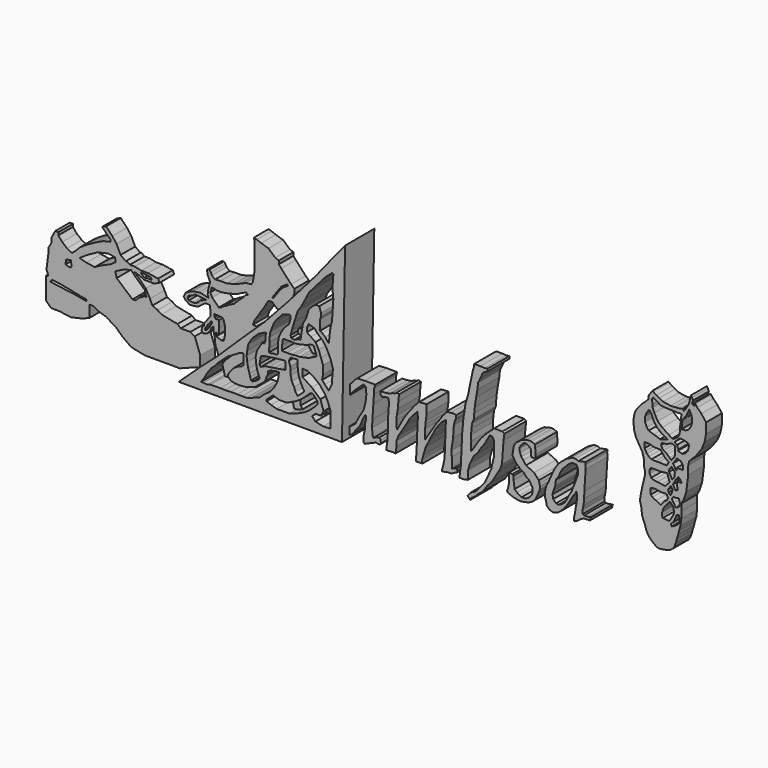
from build123d import *

# Parameters (mm, degrees)
F1_DEPTH  = 6
F3_DEPTH  = 12
F4_ANGLE  = 180
F9_DEPTH  = 9
F11_DEPTH = 5
F12_SCALE = 1.3


with BuildPart() as f1:
    # F0 (on Front) → F1 (new body)
    with BuildSketch(Plane.XZ):
        Polygon((-50.8903078735, 22.9462273419), (-52.1567687392, 21.8524653465), (-53.7686310709, 22.6583946496), (-55.3804934025, 23.982424289), (-56.6469542682, 25.4791527987), (-56.6469542682, 26.4002159238), (-57.6831512153, 26.4002159238), (-58.8344819844, 24.2702569813), (-58.8344819844, 22.7159615606), (-59.9282421172, 20.8162665367), (-59.9282421172, 19.1468391567), (-60.5614744127, 14.3112558872), (-60.1009428501, 13.2174929604), (-60.1009428501, 12.5842615962), (-60.6766082346, 12.5842615962), (-60.6766082346, 10.9148332849), (-60.6766082346, 7.6911114156), (-60.6766082346, 5.3308852948), (-59.007178992, 3.661457682), (-56.4742535353, 3.661457682), (-52.5021664798, 3.1433594413), (-48.5876500607, 4.0068565868), (-46.3425554335, 4.9854866229), (-46.3425554335, 7.1730129421), (-46.3425554335, 8.7848743424), (-45.2487915754, 8.7848743424), (-43.6944961548, 7.9213771969), (-40.9313067794, 7.0003136061), (-37.7075858414, 5.0430530682), (-35.6351919472, 3.085792996), (-32.7568687499, 0.9558334714), (-28.2091163099, 0), (-23.028133437, 0), (-16.6958197951, 0), (-12.7237346023, 1.5314982738), (-10.0181093439, 2.51012831), (-10.0181093439, 3.3160587773), (-10.0181093439, 5.9065502137), (-11.8026696146, 10.8572673053), (-13.2418321446, 11.6631984711), (-16.4079889655, 11.6631984711), (-17.5017509609, 12.5842615962), (-22.7403007448, 13.6204585433), (-24.0067634732, 14.4839556888), (-25.7337577641, 15.2323199436), (-26.5396889299, 16.9593133032), (-27.9212836176, 19.49223876), (-30.857173726, 22.3705619574), (-31.7206718028, 23.1189262122), (-29.4180121273, 22.255429998), (-28.6120809615, 21.7948984355), (-26.424555108, 21.7948984355), (-25.1005254686, 21.7948984355), (-23.3735311776, 22.6008277386), (-23.8588541242, 23.6408072438), (-27.1153524518, 24.1551231593), (-29.4180121273, 24.1551231593), (-31.4904041588, 24.6156547219), (-33.1598334014, 24.6156547219), (-34.2535972595, 25.4215858877), (-34.4359083633, 25.1741636453), (-36.1874993711, 26.4648094941), (-37.5348851085, 29.2209740728), (-38.9164797962, 31.0631003231), (-40.9313067794, 33.1930592656), (-42.2553345561, 32.6173938811), (-40.7010391355, 31.0055334121), (-39.4345782697, 29.8542045057), (-39.4345782697, 29.2209740728), (-41.8523699045, 28.6453086883), (-44.3277284503, 27.4364128709), (-46.975787729, 25.9972512722), (-49.5662763715, 24.3278220296), align=None)
        Polygon((-55.1421754062, 10.6493029743), (-59.3536198139, 11.2301921472), (-58.7243239239, 11.9563023176), (-56.691210717, 11.7626739666), (-53.3026903868, 11.1333774403), (-49.2848716676, 10.2620432153), (-47.4937967956, 10.0200055167), (-47.3485738039, 9.4391163439), (-51.4632090926, 10.1652285084), align=None, mode=Mode.SUBTRACT)
        Polygon((-54.3192476034, 17.8136043251), (-54.0772117674, 19.3626433611), (-52.5783850206, 19.66212536), (-52.2343181582, 17.9401633794), (-52.6609825086, 17.4478586796), align=None, mode=Mode.SUBTRACT)
        Polygon((-47.4003616243, 20.6076433745), (-49.655135721, 21.2192330509), (-47.5370049114, 22.6728506386), (-43.6601264163, 24.8393432986), (-40.1573494985, 25.5392364886), (-38.0100127125, 25.2000962914), (-37.7964414656, 23.8661132753), (-39.5351975016, 22.6728506386), (-42.8622923791, 21.2192330509), (-44.7044186294, 20.1818589121), align=None, mode=Mode.SUBTRACT)
        Polygon((-37.4773181975, 19.3771068007), (-37.9378497601, 21.2192330509), (-36.844085902, 21.7373315245), (-35.5200581253, 22.4281288683), (-32.7568687499, 23.2916269451), (-31.3752703369, 21.7661140487), (-28.2666832209, 18.9741402864), (-27.691014373, 16.9593133032), (-28.2091163099, 17.1320140362), (-30.1663763821, 16.0382501781), (-31.3177071512, 14.8869203404), (-32.2963371873, 14.8869203404), align=None, mode=Mode.SUBTRACT)
        Polygon((-28.2091163099, 23.5418564651), (-26.174498722, 23.2205186039), (-26.033618412, 22.5154505948), (-27.0302295685, 22.6728506386), (-28.4461871072, 22.4281288683), (-29.3165175329, 23.1824157275), (-29.5631922781, 23.5418564651), align=None, mode=Mode.SUBTRACT)
    extrude(amount=F1_DEPTH)


with BuildPart() as f1b:
    # F0 (on Front) → F1, piece 2 (new body)
    with BuildSketch(Plane.XZ):
        Polygon((-6.4766486175, 24.1211820394), (-6.0227513313, 22.7532275021), (-4.7557256185, 20.7957290113), (-3.9602471516, 17.7878271788), (-2.5808943901, 15.855608508), (0, 14.1740757972), (2.6175838429, 14.1740757972), (4.0891966479, 14.1740757972), (6.3719204627, 16.4541210979), (6.3719204627, 19.1784072667), (7.1793175302, 22.3014913499), (7.1793175302, 24.6746949852), (6.2555400655, 25.571167469), (6.2555400655, 26.5979077667), (7.7997222543, 29.0700420737), (7.8476918861, 33.3736091852), (7.1793175302, 34.4091877341), (6.4480341971, 35.2918356657), (5.3185992874, 35.4594774544), (5.8891260996, 37.002261728), (6.6770236008, 38.1651744246), (7.7774901874, 39.829261601), (9.1172754765, 41.8718084693), (10.260488838, 43.8701063395), (11.51151862, 44.2106835544), (13.2207619026, 42.6477976143), (14.0992446215, 42.3229317509), (16.4364669472, 44.8764674366), (18.4858739376, 47.6983971894), (18.9159214497, 49.0640550852), (18.9159214497, 50.247143954), (17.8419221193, 51.212541759), (14.6040525287, 54.7406189144), (13.8020487502, 55.6814447045), (13.8020487502, 56.7613206804), (12.6419296226, 57.1903366349), (10.4199834168, 59.1695196927), (8.0042615396, 59.9302337678), (6.5820836462, 60.489397496), (5.6565244136, 60.7808573458), (5.8891260996, 59.1128058732), (5.8891260996, 55.8542795479), (5.8891260996, 53.2310456038), (5.8891260996, 51.5523031354), (5.5020246655, 49.0490309894), (5.1759332418, 47.5368723273), (4.7469246201, 46.9490364194), (2.9652472585, 46.7585995793), (1.051811385, 45.9068603814), (-1.0845619254, 45.1102182269), (-3.255240852, 44.6216836572), (-5.4235248826, 44.5898845792), (-7.1534560993, 44.4812774658), (-8.1396894529, 45.2769771218), (-8.5840793326, 46.1595393717), (-9.0459091589, 46.6521605849), (-9.7805997357, 46.4868098497), (-9.6165947616, 44.9796766043), (-9.138809517, 44.1046357155), (-8.7612094358, 43.2070456445), (-8.9522367343, 42.4973070621), (-9.4994436949, 40.4090061784), (-9.5668081194, 39.3059961498), (-9.2893932015, 38.3858606219), (-11.5338107571, 39.0036702156), (-12.4138211831, 39.0161648393), (-14.3808238208, 38.7138389051), (-15.9419588745, 38.0115732551), (-16.8685875833, 37.4521017075), (-17.1597991139, 36.7198176682), (-17.4477063119, 36.1286401749), (-16.6242308915, 35.1208485663), (-15.493591316, 34.4629250467), (-14.2128402367, 34.5406197011), (-12.687494047, 34.7786396742), (-11.5614067763, 35.6988236308), (-10.5312857777, 36.4219471812), (-9.6964091063, 36.6098470986), (-8.7529150769, 36.4712700248), (-8.7276156992, 35.4242064059), (-8.6770188063, 33.3300866187), (-9.7998240963, 31.8654999137), (-10.7171088457, 30.6413900107), (-10.7152890414, 30.0101470202), (-11.3888885826, 29.2619839311), (-11.579005979, 28.2366238534), (-11.0052516684, 27.5586396456), (-9.614398703, 28.0822180212), (-8.7596876547, 29.1167851537), (-8.4534306079, 29.7822728753), (-8.1396512687, 30.4143615067), (-7.6688150875, 30.6606963277), (-7.6260762289, 30.0035681576), (-7.6642618515, 29.0825851262), (-7.2899674997, 28.043884784), (-7.1551408619, 26.354726404), (-6.9661717862, 25.2041332424), align=None)
        Polygon((-10.3409533333, 28.7805036861), (-10.43465361, 29.0523078293), (-9.9682174623, 29.9919135869), (-9.5429206267, 30.6510068476), (-8.9508062229, 31.2641821802), (-8.4582464769, 31.9488458335), (-8.1514483318, 31.976159662), (-8.0687012523, 31.6087678075), (-8.473158814, 30.9960991144), (-8.8639277965, 30.2300136536), (-9.4775948673, 29.4346306473), (-10.0565608591, 28.855714947), align=None, mode=Mode.SUBTRACT)
        Polygon((-12.4138211831, 37.8783025047), (-10.0550018251, 37.6218743622), (-11.3515928388, 37.0796732605), (-11.9998874143, 36.8085727096), (-12.5587275252, 36.1402928829), (-13.3916307241, 35.5772562325), (-14.4023634493, 35.4332439601), (-15.7805457711, 35.623844713), (-16.1927267909, 36.157052964), (-15.9476641566, 36.9216427207), (-15.0392651558, 37.3347438872), (-14.5845236257, 37.3536273837), (-13.6493925312, 38.0126219322), align=None, mode=Mode.SUBTRACT)
        Polygon((-7.3508685455, 33.5013158619), (-7.4279122055, 34.4665497541), (-4.7557256185, 34.176055342), (-4.355229903, 33.7544158101), (-3.9602471516, 32.2608878375), (-3.9177263034, 30.5010218772), (-3.9191739634, 29.3256994337), (-4.0575447492, 28.3821690828), (-4.3078395538, 27.6239998639), (-5.0575751811, 27.525447309), (-5.7489536703, 27.7909468859), (-6.4737279899, 28.0489325523), (-6.8043726496, 28.1148850918), (-7.0267361589, 29.2579643428), (-5.819386337, 29.0384050459), (-5.809805356, 30.8653376997), (-5.814358592, 32.4434489012), (-5.8646192774, 33.1339761615), (-6.8857320584, 33.1498011947), align=None, mode=Mode.SUBTRACT)
        Polygon((-8.7276156992, 40.1786204655), (-8.196093142, 41.8665222824), (-7.3527838103, 41.7053997517), (-6.3867219724, 41.46662727), (-5.0166142173, 41.4591580629), (-2.5820801966, 41.8667122722), (-0.8013135521, 42.3727668822), (0.185493569, 42.6650382578), (1.6906661913, 43.4599891305), (3.0739977956, 44.0169647336), (3.792159725, 43.4767603874), (3.0240740161, 43.3038920164), (2.265330404, 42.4663834274), (1.3320897706, 41.6246950626), (0.3729765886, 40.7420881093), (-0.8523862343, 39.4837372005), (-2.1797558293, 38.8340763748), (-3.5029090941, 38.0099117756), (-4.4262320735, 37.5915542245), (-5.1040505059, 37.017904222), (-5.9238825925, 36.7632098496), (-8.0576231703, 38.9148779213), align=None, mode=Mode.SUBTRACT)
        Polygon((11.8717471082, 45.1549677482), (11.6953086108, 45.4266890883), (13.0655001849, 47.3296903074), (14.7101513521, 49.5942917669), (16.5997017175, 50.7835671306), (16.8190041821, 50.4351339041), (15.3437723488, 49.5066289501), (14.4301839173, 48.6778058112), (13.4443407244, 47.3203496052), (12.4452809844, 45.9446948825), align=None, mode=Mode.SUBTRACT)
    extrude(amount=F1_DEPTH)


with BuildPart() as f3:
    # F2 (on Front) → F3 (new body)
    with BuildSketch(Plane.XZ):
        Polygon((21.362606436, 17.9794051219), (20.3456245363, -39.2188690603), (25.1185949892, -33.3852358162), (30.0683416426, -27.1980501711), (38.7304015458, -17.2985550016), (46.6853529215, -8.6364969611), (55.7009652257, 0), (62.241602689, 6.3994769007), (67.5930380821, 11.0819805413), (73.9106982946, 16.9536899775), (75.0255808234, 17.9794051219), align=None)
        Polygon((35.0110121071, -7.1538812481), (35.0134298205, -7.1538225748), (35.7009284198, -7.1538225748), (37.0134301484, -6.5288227051), (38.075927645, -6.7163226195), (38.2634289563, -7.4663222767), (37.763427943, -9.2788217589), (37.0134301484, -11.7163229734), (35.9509289265, -15.1538224891), (34.7009301186, -17.0288216323), (33.2634299994, -19.716322422), (32.1384295821, -21.9038221985), (30.325928703, -23.9663235843), (27.8259292245, -26.8413219601), (26.5134293586, -28.2788239419), (25.1384284347, -29.4038224965), (24.5134290308, -30.0288237631), (24.2009293288, -29.6538230032), (24.5134290308, -25.2788234502), (24.2009293288, -22.5288234651), (24.5134290308, -17.7163220942), (24.7009284794, -15.8413220197), (25.1384284347, -13.9663228765), (25.3884289414, -12.091322802), (25.57592839, -10.2163217962), (25.57592839, -9.0913223103), (26.2009296566, -9.7163217142), (26.8259290606, -10.6538217515), (27.8884284198, -11.4663224667), (28.5134296864, -11.903822422), (28.5759288818, -12.216322124), (28.5759288818, -13.4038226679), (28.5759288818, -15.1538224891), (28.2634291798, -16.0913225263), (28.2634291798, -17.1538218856), (28.8259293884, -18.9038217068), (30.0759281963, -18.9663227648), (31.2009286135, -18.0288217962), (32.2634279728, -16.9038232416), (32.8884273767, -14.9038229138), (33.1384278834, -14.0288220719), (34.2009291053, -12.1538229287), (34.5134288073, -10.2788219228), (34.8259285092, -8.3413217217), align=None, mode=Mode.SUBTRACT)
        Polygon((24.6272403747, 2.1912516095), (25.7421210408, 4.4957725331), (26.9957559826, 3.1167732086), (27.8947470718, 2.1278823732), (27.6002585888, 0.4817657173), (27.6002585888, -2.2682757117), (28.2691866159, -4.1264118627), (29.0124416351, -6.2818494625), (30.0529971719, -8.1399856135), (31.613830477, -9.1805420816), (32.8773632646, -10.0724473596), (32.8773632646, -11.4103052765), (32.2827622294, -12.6738380641), (30.4989498109, -12.0792351663), (29.3097440153, -10.741376318), (27.6002585888, -9.2548681423), (26.3367258012, -7.3967315257), (25.0731930137, -4.7210152261), (24.3299379945, -2.1939501166), (24.5529152453, 0.1101385133), align=None, mode=Mode.SUBTRACT)
        Polygon((29.8799018292, -4.7885430561), (29.6520832926, -4.1202711873), (30.0988089293, -3.8574913051), (30.8345947415, -3.5421552602), (31.570378691, -3.1742628198), (32.4112735689, -2.7538146824), (33.9879542589, -2.4384784047), (35.3281348944, -2.1756982896), (36.6945900023, -2.1494203247), (37.8245450556, -1.9917523023), (39.4012257457, -1.9917523023), (40.2158424258, -1.9654741045), (41.1618538201, -2.0443082321), (41.0304628313, -3.5684332252), (40.951628238, -4.5144418254), (40.7676845789, -5.5655622855), (40.3209552169, -5.7232300751), (39.4275039434, -5.5918400176), (38.2187142968, -5.7232300751), (36.7734245956, -5.5655622855), (35.6171913445, -5.7232300751), (32.9631119967, -6.3276244327), (31.9382697344, -6.8269069307), (31.1499293894, -6.9845751859), (30.7032037526, -6.9057410583), (30.4486274554, -6.4568152817), align=None, mode=Mode.SUBTRACT)
        Polygon((42.3763617873, -2.5280520786), (42.3763617873, -1.0037363973), (42.3628501594, -0.9925549384), (42.3763617873, -0.6699159276), (42.8966395557, -0.3726144787), (43.9371950924, -0.2982890583), (44.9405871332, -0.1124754417), (45.3493781388, -0.186800884), (45.275054872, -1.4503330458), (45.126400888, -3.2713068649), (45.163564384, -4.5720022172), (44.9034273624, -6.2814871781), (44.3831495941, -7.5821825303), (43.8257083297, -9.031528607), (42.8966395557, -10.4437125847), (41.7445935309, -11.6329193115), (40.8526882529, -12.6734757796), (39.8864597082, -12.9336146638), (38.6600866914, -13.3795673028), (38.2884629071, -13.0079407245), (38.2884629071, -12.0788719505), (38.7344136834, -10.5923628435), (39.031714201, -10.2207362652), (39.7378057241, -9.514644742), (40.4810607433, -8.6970645934), (41.4472930133, -7.173392456), (42.0790575445, -5.8726971038), (42.3763617873, -4.0888865478), align=None, mode=Mode.SUBTRACT)
        Polygon((39.9325937033, 1.8793363124), (39.9325937033, 3.1167732086), (41.2584170699, 3.3819382079), (42.2306880355, 3.5587148741), (43.3797389269, 3.6912974901), (45.412670821, 4.0448508225), (46.65010795, 4.2216274887), (48.0643212795, 4.8845401034), (48.4620667994, 4.2216274887), (48.1969043612, 2.7632198762), (48.0201281607, 1.7909479793), (47.3130196333, 1.4373945305), (45.6778369844, 1.1722295312), (43.9100675285, 0.9070644155), (41.8771356344, 0.6860935246), (40.1093699038, 0.5093168584), (39.9325937033, 0.7744818577), align=None, mode=Mode.SUBTRACT)
        Polygon((25.1185949892, 12.7035845071), (25.1185949892, 15.3313847259), (27.5734327734, 15.4364965856), (30.0987314903, 14.8581444292), (31.1974138021, 13.6495931074), (30.0411805511, 12.5984726474), (28.3593870699, 12.5984726474), (27.413379401, 11.0217919573), (28.464499861, 7.8684296459), (31.3025265932, 5.3457408212), (34.3507751822, 3.3486112952), (34.3507751822, 0.9310340392), (32.6689854264, 1.0361460736), (30.4616298527, 2.2974908352), (28.6747235805, 3.7690594327), (26.887819171, 5.976412911), (25.941811502, 7.9735415056), (25.1185949892, 10.1808952168), align=None, mode=Mode.SUBTRACT)
        Polygon((34.2467539012, 6.4650792629), (33.7164215744, 7.3931571096), (34.8833685051, 8.4540172722), (35.8655402103, 9.3469000651), (36.6772513172, 8.4540172722), (37.1193736792, 7.1279923432), (37.8264822066, 5.8021666482), (38.2242277265, 4.1227880865), (38.3568108082, 2.9295454733), (38.3568108082, 1.6037201276), (38.842946291, 0.1011178902), (38.2684208453, -1.0037363973), (37.3845398426, -1.0479305638), (36.0587127507, -1.1363190133), (35.9206548851, 0.9345495156), (35.7493534684, 2.487603575), (35.4841910303, 3.7250404712), (34.9096655846, 5.1392540336), align=None, mode=Mode.SUBTRACT)
        Polygon((29.4225343053, 8.7688182974), (29.341198504, 9.6470601857), (30.6192971766, 10.972885415), (32.0334449349, 12.2584734577), (33.8048115373, 13.447759673), (35.9703265131, 14.4200315699), (38.6661700904, 15.3313847259), (41.1410443485, 15.3313847259), (42.8646169603, 15.3313847259), (44.676579535, 14.7735849023), (46.1791791022, 14.243254438), (46.1791791022, 13.7571189553), (44.9033476039, 12.597272886), (43.9992661279, 11.7753811648), (41.9807322323, 12.4754868448), (39.5058579743, 12.4754868448), (36.6774313152, 11.1496625468), (34.6003063023, 9.8238363862), (33.0935043059, 8.4540172722), (31.6131000369, 7.1081960767), (30.9321898967, 7.1081960767), align=None, mode=Mode.SUBTRACT)
        Polygon((48.7260967493, 7.5903632678), (48.3916290104, 8.4540172722), (49.2177218066, 9.2050102393), (50.1382797956, 9.6470601857), (50.8072078228, 10.0802658126), (51.2531585991, 9.8201269284), (51.513299346, 9.0025458485), (51.7734400928, 7.9991528764), (52.1450638771, 6.7356205545), (52.5166913867, 4.9146469682), (52.7025051415, 3.2423243392), (52.5166913867, 1.6443271888), (52.1450638771, -0.3252973256), (51.2159988284, -1.9604570698), (50.2126030624, -3.1125016976), (48.7260967493, -4.4875224121), (46.9051226974, -5.4165907204), (46.1990311742, -5.5280788802), (46.4963316917, -4.5618480071), (46.4963316917, -3.1496644951), (46.9051226974, -2.2577587515), (47.6112142205, -2.2205961868), (48.6146062613, -0.5482736742), (49.3206977844, 0.6037708954), (49.72948879, 2.6105579454), (49.655161798, 3.9112530649), (49.2835342884, 5.9552029707), align=None, mode=Mode.SUBTRACT)
        Polygon((43.0962704122, 4.5321499929), (42.0599281788, 4.4957725331), (42.3099286854, 6.2457723543), (42.6849275827, 7.6832724735), (43.653678149, 9.402022697), (44.9974276125, 11.0895223916), (46.7161759734, 12.3082725331), (48.520476413, 13.9485446031), (49.7161783278, 14.243254438), (51.2161776423, 14.9332731962), (52.7403019369, 15.3313847259), (54.2118735611, 15.3586929664), (55.7477752619, 15.3313847259), (57.917073369, 15.3324147686), (59.7565323114, 15.4112484306), (61.3332130015, 15.3586929664), (64.5654127002, 15.4112484306), (65.6165331602, 15.7265849411), (66.851593554, 15.6214730814), (67.3771575093, 15.6214730814), (67.7976086736, 15.6740285456), (66.693931818, 14.243254438), (65.7479166985, 12.4943889678), (64.3551871181, 10.6023717672), (63.079930014, 9.4430478741), (61.9376078248, 8.1322388723), (60.4243031075, 6.7565081976), (59.0823385523, 5.5365412063), (57.7594041824, 4.742374178), (56.3666671515, 3.9277556352), (55.0790466368, 3.1656932551), (54.2644262314, 2.8503569774), (53.7125878036, 2.8503569774), (53.6863096058, 4.7160959803), (53.6863096058, 6.1876648106), (54.3120377348, 6.7565081976), (55.6571632624, 7.2913416661), (57.0236183703, 8.1585161388), (57.9170696437, 9.2621929944), (58.8105246425, 10.5235371739), (58.8105246425, 11.1804874614), (58.5085052128, 11.5127090482), (57.7594041824, 12.1527742594), (56.6031709313, 12.4155543745), (55.0002120435, 12.4943880364), (53.0293621123, 12.3104415834), (51.4001250267, 11.8111604825), (49.9285534024, 11.2855993211), (48.6934892833, 10.3133134544), (47.3007522523, 9.2096365988), (46.4861355722, 8.2636279985), (46.1791791022, 7.1862293407), (45.6715151668, 6.2402212061), (45.6715151668, 5.3467685357), (44.9357330799, 4.9263201654), (44.1211126745, 4.742374178), align=None, mode=Mode.SUBTRACT)
    extrude(amount=F3_DEPTH)


with BuildPart() as f3_1:
    # F4: moved
    add(f3.part.rotate(Axis((21.362606436, -6, 17.9794051219), (0, 1, 0)), F4_ANGLE))


with BuildPart() as f3_2:
    # F5: moved
    add(f3_1.part.moved(Location((20, 0, -18))))


with BuildPart() as f1b_1:
    # F6: moved
    add(f1b.part.moved(Location((2, 0, 0))))


with BuildPart() as f1b_2:
    # F7: moved
    add(f1b_1.part.moved(Location((0, 0, -15))))


with BuildPart() as f9:
    # F8 (on Front) → F9 (new body)
    with BuildSketch(Plane.XZ):
        Polygon((22.9895692319, 25.5935322493), (22.9895692319, 24.4898553938), (24.0932460874, 24.5424117893), (25.880150497, 24.1219624877), (27.719611302, 22.6503945887), (29.5590721071, 20.0225934386), (30.6627489626, 17.9203525186), (31.1883091927, 15.8706661314), (31.8189822137, 13.2428649813), (32.1343168616, 10.1946154609), (31.7138694227, 6.6208057106), (31.0306418687, 4.2557842098), (29.8744086176, 2.6265475899), (28.245171532, 1.9433193374), (26.8787145615, 2.6265475899), (26.0903742164, 3.2046639826), (25.4071466625, 4.1506723501), (25.4071466625, 5.77990897), (25.4071466625, 8.7756030262), (25.4071466625, 10.299728252), (25.4071466625, 12.0340771973), (25.9327068925, 13.7158697471), (26.8787145615, 15.8706661314), (28.245171532, 17.1845667064), (29.4539611787, 17.6575724036), (28.9809554815, 18.130576238), (28.1926151365, 18.130576238), (26.3531543314, 17.1845667064), (25.2494774759, 15.8706661314), (24.1983570158, 14.0312062576), (23.0421256274, 11.9289644063), (22.6216781884, 10.2471718565), (22.6216781884, 7.9872626811), (22.6216781884, 5.77990897), (22.9370128363, 3.7827801425), (23.5676858574, 1.6279831761), (24.5662499219, 0.5768627161), (25.9951874614, 0), (27.2139385343, 0), (28.4028407186, 0.5768627161), (30.2423015237, 1.2600909686), (32.0817604661, 2.57399166), (33.2905501127, 3.7302242126), (34.3416705728, 5.6222411804), (34.8672308028, 8.1449309364), (34.8672308028, 10.4573955759), (34.9362120032, 11.2485932186), (34.9362120032, 12.0847541839), (34.7132384777, 13.1810549647), (34.3416705728, 14.7669902071), (33.8161103427, 16.7641192675), (33.0277718604, 19.1291403025), (31.3985347748, 21.6518305242), (29.7955680225, 23.6226745571), (26.3005997986, 27.1176565439), (25.8275941014, 26.6446527094), (24.0932460874, 26.0139815509), align=None)
    extrude(amount=F9_DEPTH)


with BuildPart() as f9b:
    # F8 (on Front) → F9, piece 2 (new body)
    with BuildSketch(Plane.XZ):
        Polygon((49.5650216815, 17.0191367408), (49.894310534, 18.1597545743), (47.6404093206, 18.1597545743), (46.4471653104, 18.1597545743), (43.9280979335, 18.0271714926), (43.1216335266, 17.3027330303), (41.9862461211, 15.9819768105), (40.6541824341, 14.4324339926), (39.4202917814, 12.5029003248), (38.403827697, 10.9561039135), (37.8734953701, 9.2325313017), (37.2989699244, 7.7741234563), (36.6360582411, 5.8737737127), (36.3515168428, 3.7598838098), (36.4201952694, 2.9815315455), (36.7645025253, 1.9028326496), (37.0338074863, 1.365967677), (37.6525260508, 0.3495017299), (38.7131869793, -0.180828356), (39.3237024546, 0), (40.2992255986, 0.1806306245), (40.9867353737, 0.5150951329), (41.5255948901, 0.9424664313), (42.30600968, 1.3698377879), (42.8448691964, 1.9086973043), (43.3535724878, 2.7801811229), (44.9445657432, 4.7689191997), (45.8726398647, 7.0670163259), (46.4471653104, 8.0834822729), (46.7123314738, 8.569618687), (46.9333007932, 7.4647641741), (46.5797483921, 5.8737737127), (46.5355552733, 4.2385892011), (46.1378060281, 2.6475987397), (46.0052229464, 1.365967677), (46.0052229464, 0.2611133677), (46.4471653104, -0.0924400156), (48.0381548405, 0.6146667292), (49.3639819324, 1.1449968442), (50.0710867345, 1.5427443432), (50.6456121802, 1.3217735104), (51.3969138265, 1.3217735104), (51.7946593463, 1.8079094589), (51.6178831458, 2.7801811229), (51.3085238636, 3.3547054045), (50.0268936157, 2.912763739), (49.2645464838, 2.5507914834), (49.0926773859, 2.912763739), (48.8185957074, 5.3008329123), (48.9672459662, 7.7535728924), (49.2645464838, 12.361750938), (49.4476646257, 15.2000944714), align=None)
        Polygon((40.525380522, 10.7402931899), (41.9395938516, 13.0383903161), (43.1770309806, 14.3642155454), (44.6796305478, 15.7784298062), (46.0938476026, 17.0158669353), (46.8009524047, 16.485536471), (46.9777286053, 14.3642155454), (46.7125661671, 12.0661184192), (46.0938476026, 9.5912441611), (44.6796305478, 7.2931475006), (43.3538071811, 4.7298851423), (41.6744276881, 3.404059913), (39.9066619575, 3.1388949137), (39.287943393, 4.287943244), (39.1995534301, 6.4976522699), (39.729885757, 8.4421960637), align=None, mode=Mode.SUBTRACT)
    extrude(amount=F9_DEPTH)


with BuildPart() as f9c:
    # F8 (on Front) → F9, piece 3 (new body)
    with BuildSketch(Plane.XZ):
        Polygon((53.9160482585, 3.4954992589), (53.4956008196, 0.4998056102), (54.0737174451, 0.3946935758), (54.8620559275, 0.4998056102), (55.5978417397, 0.4998056102), (56.5438494086, 0.3946935758), (56.9117441773, 2.7071589138), (56.9117441773, 4.1787275113), (57.4898608029, 5.8079645969), (59.9074363708, 9.7496667877), (60.5906657875, 10.8533436432), (61.1162260175, 11.9570195675), (63.7440234423, 14.9527136236), (63.9016926289, 13.3760329336), (63.6389106512, 7.7525372617), (63.5863617063, 6.0181883164), (63.2710233331, 0.3421375586), (65.3732642531, 0.3421375586), (65.3207078576, 0.8151417715), (65.3207078576, 1.3932582224), (65.6886026263, 2.9173828661), (66.4769411087, 5.4926280864), (67.8433999419, 8.2255424932), (68.5266256332, 9.4868866727), (69.6303024888, 11.5891275927), (70.8390921354, 13.3760329336), (71.7325434089, 14.4271533936), (73.2041150331, 15.6359411776), (73.0990022421, 15.0578254834), (72.7311074734, 5.6502963416), (72.6785510778, 4.1787275113), (72.2580999136, 2.2341546137), (71.7325434089, 0.1319134608), (73.4668895602, 0.5523616564), (74.885904789, 0.5523616564), (75.6216868758, 1.0253658984), (76.7253637314, 1.4458141522), (76.883032918, 1.9713744987), (76.7253637314, 2.6546027511), (75.937025249, 2.444378566), (75.1776769757, 2.0503965206), (75.0435739756, 2.4702411611), (75.0435739756, 5.4926280864), (74.885904789, 7.1744211018), (75.4640176892, 11.0110109672), (75.7267996669, 14.8476017639), (76.0946944356, 16.2666141987), (76.4625817537, 17.1600673348), (76.5151381493, 18.0009640753), (75.937025249, 18.1586313993), (74.7807919979, 18.1060750037), (73.3092203736, 18.0009640753), (73.0464458466, 17.4754038453), (71.9953253865, 16.3191705942), (71.1018741131, 14.9527136236), (69.8405280709, 13.2709210739), (67.9485052824, 10.2752270177), (66.9499412179, 8.6985463277), (66.2141591311, 7.4372012168), (66.2667155266, 8.1729851663), (66.2667155266, 9.4868866727), (66.2667155266, 10.7482308522), (66.4243847132, 12.0621314272), (66.4769411087, 13.0081409588), (66.7922794819, 15.2154937387), (66.7922794819, 18.0009640753), (64.3747001886, 17.8432948887), (64.111918211, 17.6856275648), (63.6389106512, 17.1600673348), (62.6929029822, 16.1615014076), (61.694342643, 14.7950453684), (60.643222183, 13.4811447933), (59.9074363708, 12.4300243333), (59.0665414929, 11.1686792225), (58.3307556808, 9.7496667877), (57.0694096386, 7.4897571467), (56.8066313863, 8.5408780724), (56.9117441773, 10.2226706222), (56.9643005729, 11.5365711972), (57.3321916163, 13.6388130486), (57.4898608029, 15.7410539687), (57.7000826597, 17.8958512843), (56.9117441773, 18.1060750037), (56.4387403429, 17.7381839603), (55.5978417397, 17.5805147737), (54.5467212796, 17.1075109392), (53.2328188419, 16.8972872198), (51.5510290861, 16.8447308242), (51.6561381519, 15.8461667597), (52.2342547774, 15.2680501342), (53.0795771784, 15.6680618153), (54.283939302, 15.7410539687), (54.389052093, 14.0067050233), (54.0211610496, 8.6985463277), (54.0211610496, 5.6502963416), align=None)
    extrude(amount=F9_DEPTH)


with BuildPart() as f9d:
    # F8 (on Front) → F9, piece 4 (new body)
    with BuildSketch(Plane.XZ):
        Polygon((84.4525098801, 34.7417369485), (82.4195742607, 34.7417369485), (82.4010744691, 34.5795564353), (82.3311880231, 33.9462421834), (81.8892419338, 32.3552526534), (80.3866386414, 25.1074060798), (79.5911476016, 22.4557574838), (79.2375952005, 20.2460475266), (78.8832369539, 18.0805334821), (78.4420967102, 13.0865909159), (78.0210122466, 3.8865737151), (77.5582119823, 0.270280143), (78.618876636, 0.1818917954), (80.3866386414, 0.5354451714), (80.3866386414, 1.5077169519), (80.3866386414, 3.2754838467), (81.0053572059, 5.4851928726), (82.3311880231, 8.1368433312), (83.5686251521, 9.3742804602), (84.4525098801, 10.8768828213), (85.955105722, 12.9098147154), (86.7506042123, 14.4124161452), (87.546095252, 15.7382413745), (88.3415937424, 15.7382413745), (88.8719260693, 14.7659694776), (88.8719260693, 13.7936975807), (88.8719260693, 12.0259309188), (88.9603123069, 10.3465523571), (87.9880413413, 6.1039114371), (87.1041566133, 4.1593671776), (85.955105722, 1.6844937345), (82.8615128994, -2.0278168377), (81.2705233693, -2.8233127668), (80.2098661661, -4.0607494302), (81.0937508941, -5.0330213271), (81.4473032951, -4.3259146623), (82.7731266618, -3.4420310985), (83.5686251521, -2.5581477676), (85.2480009198, -1.2323217234), (86.8389904499, 1.0657752864), (88.3415937424, 2.7451538481), (90.2861356735, 6.0155228712), (90.9932404757, 7.2529600002), (91.5235728025, 8.6671737954), (92.0539051294, 15.7382413745), (92.3190712929, 17.7711732686), (91.7003527284, 18.2131156325), (90.551301837, 18.2131156325), (88.9603123069, 18.2131156325), (88.5625630617, 17.7711741999), (87.5214744395, 16.9089279775), (86.3099321723, 15.7478675246), (84.6004486084, 13.8897299767), (83.4112465382, 12.2174080461), (82.3311880231, 10.4349404573), (81.3589170575, 9.1091152281), (81.4473032951, 12.114319019), (81.3589170575, 13.8820866123), (81.5356895328, 15.7382413745), (81.7124694586, 17.3292327672), (82.3311880231, 18.831834197), (82.4195742607, 20.4228255898), (82.596346736, 22.2789794207), (83.0382928252, 25.2841841429), (83.4802314639, 27.6706703007), (83.6570113897, 29.7036021948), (84.4525098801, 31.2945917249), (85.3363871574, 33.2391373813), (85.955105722, 33.5042998195), (86.7506042123, 33.9462421834), (86.7506042123, 34.7417369485), (85.8667194843, 34.6533507109), align=None)
    extrude(amount=F9_DEPTH)


with BuildPart() as f9e:
    # F8 (on Front) → F9, piece 5 (new body)
    with BuildSketch(Plane.XZ):
        Polygon((101.1561229825, 14.234887436), (101.2676134706, 13.8632608578), (102.4196594954, 13.8632608578), (102.6054695249, 15.1267936453), (102.4568229914, 16.7991165072), (102.4568229914, 17.7281834185), (102.4568229914, 17.9883223027), (101.8993780017, 18.0998109281), (101.3419404626, 18.3599498123), (100.933149457, 18.4714384377), (99.6696129441, 18.3599498123), (98.1459468603, 17.8768355399), (97.179710865, 17.2079056501), (96.3249728084, 16.5761392564), (95.5445542932, 15.5727462843), (95.3587368131, 14.8294912651), (95.1729267836, 13.788934797), (94.9871093035, 12.4139143154), (95.4702273011, 11.5963341668), (96.1391553283, 10.5186151341), (96.9939008355, 9.8125236109), (97.6256653666, 9.1435946524), (98.6662209034, 8.586153388), (99.4838029146, 7.6570855454), (100.3385484219, 7.0996447466), (101.0817959905, 5.9847631492), (101.6392409801, 5.1671830006), (101.4534235001, 3.0489077326), (100.895985961, 2.4543043692), (100.1898944378, 1.7110494664), (99.2608219385, 1.2650968274), (97.9229658842, 1.1907713488), (97.3283648491, 1.525235828), (96.4364558458, 2.1570022218), (95.6932008266, 2.8259314131), (95.3587368131, 5.3158341907), (95.2844172716, 6.5422039479), (94.9871093035, 6.9509940222), (94.0952077508, 7.0253191516), (93.7235802412, 6.9138309918), (93.8722342253, 5.9104375541), (93.7979072332, 4.9813692458), (93.7979072332, 3.6182403564), (93.609444797, 2.8298997786), (93.3519527316, 1.8968631048), (93.2084396482, 1.3735630782), (93.5336127877, 1.0948426789), (94.0910503268, 0.8161222795), (94.815723598, 0.5188205396), (95.7675278187, 0.2245406358), (97.6256653666, -0.0727611405), (100.3385484219, 0.4475169699), (101.4534235001, 1.0421205079), (102.3824959993, 1.9340257859), (102.9770970345, 3.0489077326), (103.5716980696, 4.3867658824), (103.9685383439, 5.4079345427), (104.0242835879, 6.4484905452), (103.8384661078, 7.0988382213), (103.6340743303, 7.9721622169), (103.1629145145, 8.4746656939), (102.0851954818, 9.7010349855), (99.4094759226, 10.9274052083), (98.5547304153, 12.1166128665), (97.8968292475, 12.9731781781), (97.4548906088, 13.8632608578), (97.2339138389, 14.961916022), (97.4026918411, 15.647072345), (98.1831029058, 16.6876278818), (98.8520383835, 17.2079056501), (99.6324494481, 17.2450691462), (100.3757044673, 16.8734416366), (100.970312953, 16.2045117468), (101.0817959905, 15.5355837196), (101.1561229825, 14.9781424552), align=None)
    extrude(amount=F9_DEPTH)


with BuildPart() as f9f:
    # F8 (on Front) → F9, piece 6 (new body)
    with BuildSketch(Plane.XZ):
        Polygon((119.0240085125, 18.2543024421), (119.022063911, 18.2525105774), (116.6570410132, 17.779506743), (115.7110333443, 18.147399649), (114.5548000932, 18.0948432535), (112.6102283597, 17.0437227935), (110.8758747578, 15.6247103587), (110.1400926709, 14.8889254779), (109.4043105841, 13.8903614134), (108.7736338377, 12.839240022), (108.0904081464, 11.4727839828), (107.6174005866, 10.2639952675), (106.8290621042, 8.5822017863), (105.9881672263, 6.8478533067), (105.6728288531, 5.2186162211), (105.6202724576, 3.9047156461), (105.9881672263, 2.8010390233), (106.250949204, 1.4871379826), (107.2495132685, 0.541129557), (108.353190124, 0.2257934102), (109.8247542977, 0.6462415913), (110.6131002307, 1.1718018213), (112.0846644044, 2.7484830935), (113.1357848644, 4.1149398312), (113.8190180063, 5.271172151), (114.3971309066, 6.3222930767), (115.0803565979, 7.3734135367), (115.6059205532, 7.8464178368), (115.9212589264, 8.7924264371), (116.236589849, 7.8464178368), (116.236589849, 6.7427414469), (116.0263717175, 5.4813963361), (115.5008077621, 2.328034956), (115.2380257845, 1.0666898452), (115.1329129934, 0.2257934102), (115.3431385756, -0.0895427438), (116.4993718266, 0.4885735107), (117.3402667046, 1.2243578676), (118.3913871646, 1.6973626334), (120.4936280847, 1.8550306559), (120.7564100623, 2.853595186), (120.1782971621, 2.7484830935), (119.5476204157, 2.6433710009), (118.5490563512, 2.6433710009), (118.076056242, 2.9061511159), (118.0234998465, 4.0623839013), (118.3388307691, 5.533952266), (118.5490563512, 7.5836377218), (118.6016127467, 9.6858786419), (119.022063911, 16.1502696574), (118.9169511199, 17.359059304), (119.0258786082, 18.2563923299), align=None)
        Polygon((109.0171039104, 8.021668531), (109.0434342623, 8.2006556913), (109.2566803751, 9.9573544144), (110.1482883096, 11.2058594823), (110.72281003, 12.5316847116), (111.4741116762, 13.8575099409), (112.6231625676, 15.0065589696), (113.5070472956, 15.8904418349), (114.3467351794, 16.4207722992), (114.8770675063, 16.6417434812), (116.0261109471, 16.5091603994), (116.3796633482, 15.9346368164), (116.556443274, 14.8739758879), (116.6006401181, 13.9900920913), (115.0980368257, 10.0126164034), (114.3467351794, 8.1122666597), (113.4628504515, 6.6980533302), (112.8883287311, 5.4606166668), (112.110696733, 4.2651635595), (110.8290627599, 3.2928916626), (110.1219579577, 2.9835323803), (109.3264594674, 3.1603092793), (108.3983853459, 4.0883868933), (108.1332191825, 5.3700176068), (108.4867715836, 6.6074552014), align=None, mode=Mode.SUBTRACT)
    extrude(amount=F9_DEPTH)


with BuildPart() as f11:
    # F10 (on Front) → F11 (new body)
    with BuildSketch(Plane.XZ):
        Polygon((138.1950974464, -0.2857579093), (138.8047784567, -0.8021260728), (139.5552903414, -1.3905472588), (140.3121352196, -1.5547430376), (141.141474247, -1.4726451482), (141.9038032249, -1.3010955617), (142.4745172262, -1.1640677694), (143.1445330381, -0.8796253242), (143.6336040497, -0.5230649258), (143.9797282219, -0.0722214245), (144.1937237978, 0.3222518717), (144.2876458168, 0.6766581791), (144.5339769125, 1.234122552), (144.6928232908, 1.9259697292), (145.0753211975, 3.1473434065), (145.280405879, 4.0400549769), (145.6375569105, 5.2376859821), (145.8476036787, 6.8860924803), (145.8476036787, 8.6025418714), (145.8802521229, 10.3181581944), (146.4621722698, 11.3690989092), (147.1075564623, 13.3159765974), (147.6100832224, 17.2633882612), (147.6100832224, 19.3499401212), (147.837549448, 20.371042192), (149.496987462, 22.0308806747), (151.0184705257, 24.1327639669), (151.7482101917, 25.9152762592), (152.122810483, 27.826892212), (152.122810483, 30.3963832557), (150.9236544371, 31.9388359785), (149.8956978321, 32.9577513039), (149.4146883488, 33.6117632687), (149.228811264, 33.7679386139), (149.228811264, 32.9498127103), (148.6029475927, 33.3653017879), (148.6029475927, 33.6287282407), (148.8295197487, 34.1854840517), (148.5593765974, 34.7891077399), (148.2921093702, 35.1553820074), (147.991836071, 33.9123569429), (147.6892977953, 32.8539349139), (146.9419747591, 31.6322855651), (146.3984698057, 30.9404321015), (146.8304544687, 32.1585536003), (146.286636591, 31.493075192), (145.7101106644, 31.3547477126), (144.2138701677, 31.2061235309), (143.1367844343, 31.1676990241), (141.2409245968, 31.4629971981), (140.2628719807, 31.926818192), (139.5482420921, 32.3408357799), (138.8060450554, 32.8600518405), (138.5413408279, 33.0153442919), (138.1026208401, 32.35103935), (137.6889050007, 31.7925177515), (137.5110447407, 31.2893874943), (137.6209706068, 30.8949798346), (136.86850667, 30.0952848047), (135.8805149794, 29.2138271034), (135.0517868996, 28.2022729516), (134.2496722937, 27.1646417677), (133.8721513748, 25.7888734341), (133.7538957596, 24.7061382979), (133.9086741209, 22.782433778), (134.3992948532, 21.3372521102), (135.2669000626, 19.7821911424), (135.9870433807, 18.6339151114), (136.3763213158, 17.1835273504), (136.3763213158, 15.6941823661), (136.6686373949, 14.5384203643), (136.6686373949, 13.6051885784), (136.3962441683, 12.4838137999), (135.9357833862, 10.6136072427), (135.6207877398, 9.0061370283), (135.447666049, 7.9597691074), (135.4558169842, 7.2884405963), (135.7676237822, 6.098294165), (135.9357833862, 4.3928823434), (136.6686373949, 2.5798613206), (136.9797587395, 1.5193520812), (137.4319344759, 0.681595644), (137.7024799585, 0.2410353918), align=None)
        Polygon((141.4857208729, 8.0438600853), (143.01879704, 9.8251104355), (143.9250409603, 8.7001100183), (143.9875513315, 7.356360089), (142.8625434637, 5.4188603535), (141.1750465631, 5.5438601412), (141.0187929869, 5.9188599698), (140.9875452518, 6.7313602194), align=None, mode=Mode.SUBTRACT)
        Polygon((138.1045877934, 11.1682265997), (138.6027187109, 11.3653121516), (139.2874568701, 11.4047285169), (139.9575471878, 11.2864775583), (140.9298330545, 11.1682265997), (142.1123445034, 11.1945047975), (142.5065249205, 10.3141907603), (142.1386301517, 9.7229359671), (141.6787654161, 9.4470167533), (141.2845849991, 9.026568383), (140.6801939011, 8.303922601), (140.2071863413, 8.5272863507), (139.4451260567, 8.8951783255), (138.5516822338, 9.3287657946), (138.1575018167, 9.7623532638), (138.0523890257, 10.4718590155), align=None, mode=Mode.SUBTRACT)
        Polygon((137.817338109, 15.0872189552), (138.1045877934, 15.7280340791), (139.032676816, 15.7501306385), (140.5352801085, 15.6838409603), (142.3030346632, 15.9048102796), (142.8775638342, 14.0707530081), (141.7948007584, 12.8554124385), (140.933021903, 12.9658980295), (139.8060619831, 13.1205776706), (138.8117074966, 13.2531607524), (138.2371783257, 13.5404225439), (137.883618474, 14.3138207495), align=None, mode=Mode.SUBTRACT)
        Polygon((143.9250409603, 5.525410641), (144.6458548307, 7.356360089), (145.2765166759, 7.5750956312), (145.3290730715, 7.0495354012), (145.4604715109, 6.0246931389), (144.9874639511, 5.3151864558), (143.9889073372, 4.6582361683), (143.4370577335, 4.4217342511), (143.2005614042, 4.9210162833), align=None, mode=Mode.SUBTRACT)
        Polygon((143.4078961611, 10.6399543583), (143.9250409603, 11.132360436), (144.5146948099, 11.1137796193), (145.2579498291, 11.2438490614), (145.2951133251, 11.0394535586), (145.4995125532, 10.2311642841), (145.3694403172, 9.4507476315), (144.4682478905, 8.8747246191), (143.9200937748, 9.8502468318), align=None, mode=Mode.SUBTRACT)
        Polygon((142.5065249205, 12.3066021789), (143.2004272938, 13.3159765974), (143.6644643545, 12.6243941486), (143.5539722443, 12.1603552252), (143.1120336056, 11.1659858376), (142.6479965448, 11.7184128612), align=None, mode=Mode.SUBTRACT)
        Polygon((144.3553864956, 12.7267409116), (143.7613964081, 13.8517403975), (144.5267774104, 15.3059468824), (145.0272649527, 15.4454903677), (144.9960172176, 15.9611161798), (145.5272734165, 15.6329907477), (145.855396986, 15.0236161426), (145.855396986, 14.8517405614), (144.8866426945, 14.9142406881), (144.7928994894, 14.3204908818), (144.8241472244, 13.6486152187), (144.9803858995, 13.0392406136), (144.58976686, 12.7892410383), align=None, mode=Mode.SUBTRACT)
        Polygon((142.811268568, 16.9875677675), (143.4078961611, 17.6529474556), (144.2475765944, 16.7665965855), (144.0929025412, 15.5512578785), (143.5625702143, 14.8441502824), (142.789170146, 16.3246560842), align=None, mode=Mode.SUBTRACT)
        Polygon((136.5853995085, 20.3779060394), (136.5853995085, 20.9675095975), (137.3587995768, 20.9675095975), (137.9554271698, 20.9233164787), (138.8393044472, 20.5918587744), (140.2314156294, 20.569762215), (140.6291723251, 20.5255690962), (141.0932093859, 19.9289470911), (141.7561173439, 19.1334523261), (142.7062898874, 18.4484422207), (142.4190253019, 17.9844032973), (142.2201544046, 17.4982678145), (142.0875787735, 17.5645593554), (141.5572464466, 17.5645593554), (140.1651352644, 17.6529474556), (139.3033415079, 17.6087524742), (138.2868736982, 17.6529474556), (137.6682051028, 18.0507696197), (137.1820271015, 18.536830321), (136.872664094, 19.0229658037), (136.5853995085, 19.5974912494), align=None, mode=Mode.SUBTRACT)
        Polygon((141.4857208729, 20.5988772213), (141.3089334965, 20.720411092), (141.0326858605, 20.9965920778), (140.7344192266, 21.6263905168), (140.8669948578, 22.1014786512), (141.0327255726, 22.2451090813), (141.5740996599, 22.2340617329), (142.3033028841, 22.366642952), (142.9109722376, 22.6760022342), (143.3860659599, 22.8417310864), (143.6291337013, 22.8527802974), (143.8611447811, 22.7422937751), (144.2478448153, 22.587614134), (144.2809998989, 22.2451090813), (144.303098321, 21.6816347092), (144.325196743, 21.151304245), (144.303098321, 20.6872653216), (144.2257463932, 20.3779060394), (143.9384967089, 19.8365263641), (143.6401754618, 19.5050705224), (143.3418691158, 19.0962739289), (142.8999304771, 19.5382162929), (142.2922611237, 20.0574975461), (141.9055610895, 20.3779060394), align=None, mode=Mode.SUBTRACT)
        Polygon((137.074097991, 27.620030567), (137.7058774233, 28.5490974784), (138.2633149624, 27.9173310846), (138.8207525015, 26.5051480383), (139.6383345127, 25.2787787467), (140.7532095909, 24.3868716061), (142.3512101173, 23.4206411988), (141.6822820902, 23.1976658106), (140.4559165239, 22.826038301), (139.7126615047, 23.1605023146), (138.8950794935, 23.3834795654), (137.5943869352, 23.8294322044), (137.148424983, 24.3868716061), (136.702477932, 25.3902673721), (136.702477932, 26.6930330545), align=None, mode=Mode.SUBTRACT)
        Polygon((139.0486806631, 28.2189361751), (138.6027187109, 29.2594935745), (138.6027187109, 30.1142353565), (138.379752636, 31.0433041304), (138.751372695, 31.5635800362), (139.7919356823, 31.0433041304), (140.5723541975, 30.44869937), (142.5048112869, 30.2628856152), (143.8055038452, 30.2628856152), (145.0318694115, 30.1513988525), (145.6264853477, 30.2628856152), (145.9237784147, 30.1142353565), (145.7751244307, 29.3338187039), (145.7379609346, 28.4047499299), (145.5893218517, 27.550008148), (145.5521583557, 26.65810287), (145.4035043716, 25.5060568452), (144.8832303286, 24.6884785593), (144.2514657974, 24.2053624243), (143.8055038452, 24.0195486695), (143.5453742743, 24.0195486695), (142.690628767, 24.5769899338), (141.0183012486, 25.6547089666), (139.9034261703, 26.65810287), align=None, mode=Mode.SUBTRACT)
        Polygon((144.6894705296, 17.0668456703), (143.7613964081, 18.5252539814), (144.7748898789, 19.9995166761), (145.7943320274, 19.6301080287), (146.2804675102, 18.8346132636), (146.2362706661, 17.9065354168), (145.1756060123, 17.8181473166), (144.6452885866, 17.8181473166), align=None, mode=Mode.SUBTRACT)
        Polygon((144.1578276312, 23.4206411988), (145.4035043716, 24.6666185558), (145.916134119, 24.6978681535), (146.4786380529, 24.5728679001), (147.0411419868, 24.4478676468), (147.6661413908, 24.1978671402), (147.7911323309, 23.6353669316), (147.5098878145, 22.5728675723), (146.8223929405, 21.6978676617), (146.0723876953, 21.4166175574), (144.9786424637, 21.7291172594), (145.1348811388, 22.1041180193), (144.7598934174, 22.9791179299), align=None, mode=Mode.SUBTRACT)
        Polygon((147.2354382277, 30.4871574044), (147.8672027588, 31.8621769547), (148.3874768019, 30.8587830514), (148.573294282, 29.9854595214), (148.573294282, 29.2236246169), (148.3317315578, 28.2388124615), (147.7928757668, 27.4026505649), (146.9752937555, 26.9195344299), (145.8970214229, 26.8290976002), (146.1856153761, 29.065657344), (146.3992744684, 29.2793679982), (146.6780006886, 29.7067388892), align=None, mode=Mode.SUBTRACT)
    extrude(amount=F11_DEPTH)


with BuildPart() as f11_1:
    # F12: moved
    add(f11.part.scale(F12_SCALE).moved(Location((-42.3424422741, 1.5, 0.4417935445))))


with BuildPart() as f13_1:
    # F13: copy of F11
    add(f11_1.part)


solid = Compound([f1.part, f3_2.part, f1b_2.part, f9.part, f9b.part, f9c.part, f9d.part, f9e.part, f9f.part, f11_1.part, f13_1.part])
